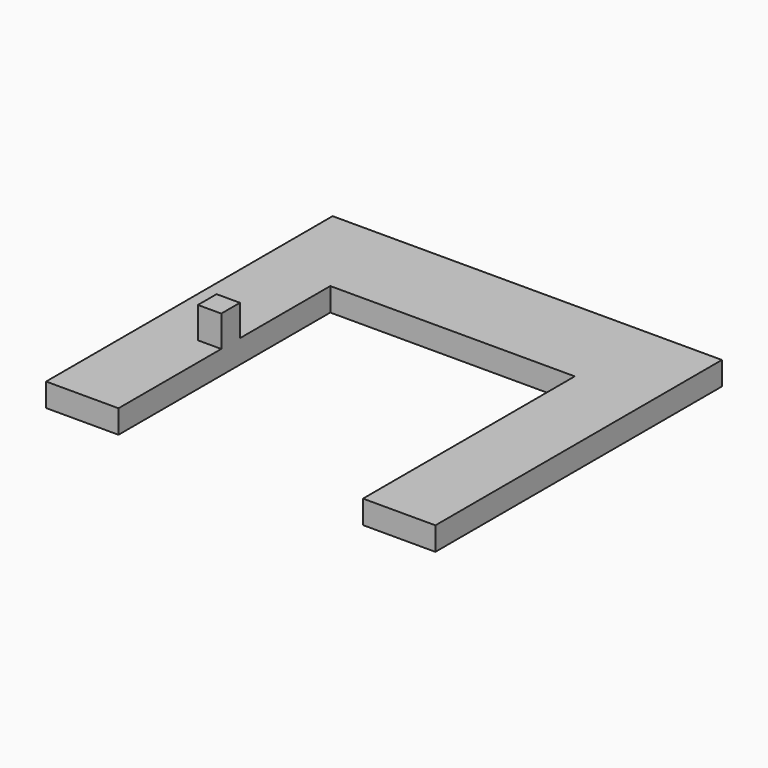
from build123d import *

# Parameters (mm, degrees)
SKETCH_W     = 25
SKETCH_H     = 23
PAD_DEPTH    = 1.5
SKETCH001_W  = 15.7
SKETCH001_H  = 17
POCKET_DEPTH = 5
SKETCH002_W  = 1.5
SKETCH002_H  = 1.5
PAD001_DEPTH = 2


with BuildPart() as part:
    # Sketch → Pad (new body)
    with BuildSketch(Plane.XY):
        Rectangle(SKETCH_W, SKETCH_H)
    extrude(amount=PAD_DEPTH)

    # Sketch001 (on Face6 of Pad) → Pocket (cut)
    with BuildSketch(Plane.XY.offset(1.5)):
        with Locations((0, -3)):
            Rectangle(SKETCH001_W, SKETCH001_H)
    extrude(amount=-POCKET_DEPTH, mode=Mode.SUBTRACT)

    # Sketch002 (on Face4 of Pocket) → Pad001 (join)
    with BuildSketch(Plane(origin=(0, 0, 1.5), x_dir=(1, 0, 0), z_dir=(0, 0, -1))):
        with Locations((-8.6, 2.5)):
            Rectangle(SKETCH002_W, SKETCH002_H)
    extrude(amount=-PAD001_DEPTH)


solid = part.part
